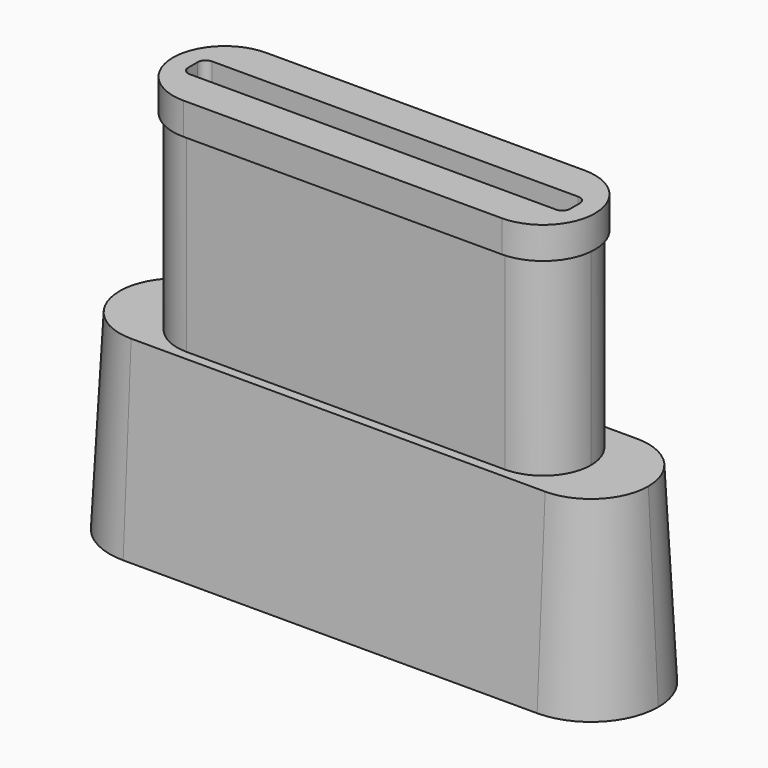
from build123d import *

# Parameters (mm, degrees)
F1_DEPTH  = 2
F3_DEPTH  = 12
F5_DEPTH  = 12
F5_TAPER  = -3
F6_W      = 24
F6_H      = 1.75
F7_DEPTH  = 2
F8_R      = 0.5
F10_DEPTH = 2


with BuildPart() as f1:
    # F0 (on Top) → F1 (new body)
    with BuildSketch(Plane.XY):
        with BuildLine():
            ThreePointArc((0, 2.5), (0.732233047, 0.732233047), (2.5, 0))
            Line((2.5, 0), (22.5, 0))
            ThreePointArc((22.5, 0), (24.267766953, 0.732233047), (25, 2.5))
            ThreePointArc((25, 2.5), (24.267766953, 4.267766953), (22.5, 5))
            Line((22.5, 5), (2.5, 5))
            ThreePointArc((2.5, 5), (0.732233047, 4.267766953), (0, 2.5))
        make_face()
    extrude(amount=-F1_DEPTH)

    # F2 (on face) → F3 (join)
    with BuildSketch(Plane(origin=(0, 0, -2), x_dir=(1, 0, 0), z_dir=(0, 0, -1))):
        with BuildLine():
            ThreePointArc((2.5, 0.5), (0.3786796564, -0.3786796564), (-0.5, -2.5))
            ThreePointArc((-0.5, -2.5), (0.3786796564, -4.6213203436), (2.5, -5.5))
            Line((2.5, -5.5), (22.5, -5.5))
            ThreePointArc((22.5, -5.5), (24.6213203436, -4.6213203436), (25.5, -2.5))
            ThreePointArc((25.5, -2.5), (24.6213203436, -0.3786796564), (22.5, 0.5))
            Line((22.5, 0.5), (2.5, 0.5))
        make_face()
        with BuildLine():
            Line((2.5, 0), (22.5, 0))
            ThreePointArc((22.5, 0), (25, -2.5), (22.5, -5))
            Line((22.5, -5), (2.5, -5))
            ThreePointArc((2.5, -5), (0, -2.5), (2.5, 0))
        make_face(mode=Mode.SUBTRACT)
        with BuildLine():
            ThreePointArc((22.5, -5), (25, -2.5), (22.5, 0))
            Line((22.5, 0), (2.5, 0))
            ThreePointArc((2.5, 0), (0, -2.5), (2.5, -5))
            Line((2.5, -5), (22.5, -5))
        make_face()
    extrude(amount=F3_DEPTH)

    # F4 (on face) → F5 (join)
    with BuildSketch(Plane(origin=(0, 0, -14), x_dir=(1, 0, 0), z_dir=(0, 0, -1))):
        with BuildLine():
            Line((25.5, 1.099999994), (-0.5, 1.099999994))
            ThreePointArc((-0.5, 1.099999994), (-3.0455844081, 0.0455844081), (-4.099999994, -2.5))
            ThreePointArc((-4.099999994, -2.5), (-3.0455844081, -5.0455844081), (-0.5, -6.099999994))
            Line((-0.5, -6.099999994), (25.5, -6.099999994))
            ThreePointArc((25.5, -6.099999994), (28.0455844081, -5.0455844081), (29.099999994, -2.5))
            ThreePointArc((29.099999994, -2.5), (28.0455844081, 0.0455844081), (25.5, 1.099999994))
        make_face()
        with BuildLine():
            ThreePointArc((-3.5, -2.5), (-2.6213203436, -0.3786796564), (-0.5, 0.5))
            Line((-0.5, 0.5), (2.5, 0.5))
            Line((2.5, 0.5), (22.5, 0.5))
            Line((22.5, 0.5), (25.5, 0.5))
            ThreePointArc((25.5, 0.5), (27.6213203436, -0.3786796564), (28.5, -2.5))
            ThreePointArc((28.5, -2.5), (27.6213203436, -4.6213203436), (25.5, -5.5))
            Line((25.5, -5.5), (22.5, -5.5))
            Line((22.5, -5.5), (2.5, -5.5))
            Line((2.5, -5.5), (-0.5, -5.5))
            ThreePointArc((-0.5, -5.5), (-2.6213203436, -4.6213203436), (-3.5, -2.5))
        make_face(mode=Mode.SUBTRACT)
        with BuildLine():
            Line((22.5, 0.5), (2.5, 0.5))
            ThreePointArc((2.5, 0.5), (-0.5, -2.5), (2.5, -5.5))
            Line((2.5, -5.5), (22.5, -5.5))
            ThreePointArc((22.5, -5.5), (25.5, -2.5), (22.5, 0.5))
        make_face()
        with BuildLine():
            Line((2.5, 0.5), (-0.5, 0.5))
            ThreePointArc((-0.5, 0.5), (-2.6213203436, -0.3786796564), (-3.5, -2.5))
            ThreePointArc((-3.5, -2.5), (-2.6213203436, -4.6213203436), (-0.5, -5.5))
            Line((-0.5, -5.5), (2.5, -5.5))
            ThreePointArc((2.5, -5.5), (-0.5, -2.5), (2.5, 0.5))
        make_face()
        with BuildLine():
            Line((25.5, 0.5), (22.5, 0.5))
            ThreePointArc((22.5, 0.5), (25.5, -2.5), (22.5, -5.5))
            Line((22.5, -5.5), (25.5, -5.5))
            ThreePointArc((25.5, -5.5), (27.6213203436, -4.6213203436), (28.5, -2.5))
            ThreePointArc((28.5, -2.5), (27.6213203436, -0.3786796564), (25.5, 0.5))
        make_face()
    extrude(amount=F5_DEPTH, taper=F5_TAPER)

    # F6 (on face) → F7 (cut)
    with BuildSketch(Plane.XY):
        with Locations((12.5, 2.5)):
            Rectangle(F6_W, F6_H)
    extrude(amount=-F7_DEPTH, mode=Mode.SUBTRACT)

    # F8
    f8_edges = [f1.edges().sort_by_distance(p)[0] for p in [
        (0.5, 3.375, -1),
        (0.5, 1.625, -1),
        (24.5, 1.625, -1),
        (24.5, 3.375, -1),
    ]]
    fillet(f8_edges, radius=F8_R)

    # F9 (on face) → F10 (join)
    with BuildSketch(Plane.XY):
        with BuildLine():
            Line((22.5, 5.75), (2.5, 5.75))
            ThreePointArc((2.5, 5.75), (-0.75, 2.5), (2.5, -0.75))
            Line((2.5, -0.75), (22.5, -0.75))
            ThreePointArc((22.5, -0.75), (25.75, 2.5), (22.5, 5.75))
        make_face()
        with BuildLine():
            ThreePointArc((2.5, 0), (0, 2.5), (2.5, 5))
            Line((2.5, 5), (22.5, 5))
            ThreePointArc((22.5, 5), (25, 2.5), (22.5, 0))
            Line((22.5, 0), (2.5, 0))
        make_face(mode=Mode.SUBTRACT)
    extrude(amount=-F10_DEPTH)


solid = f1.part
